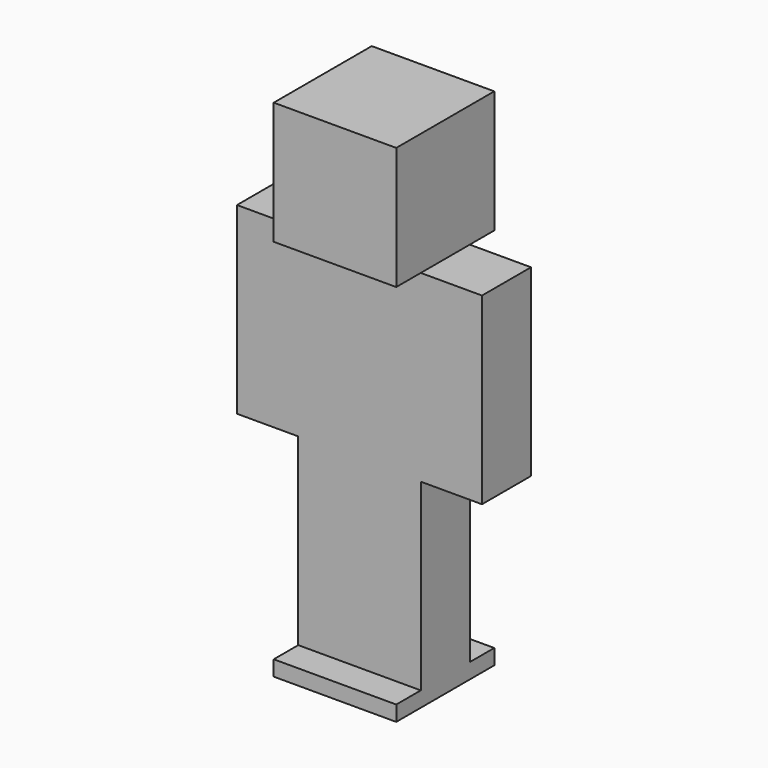
from build123d import *

# Parameters (mm, degrees)
F0_W     = 8
F0_H     = 24
F1_DEPTH = 4
F2_DEPTH = 8
F3_W     = 16
F3_H     = 16
F4_DEPTH = 2


with BuildPart() as f1:
    # F0 (on Front) → F1 (new body, symmetric)
    with BuildSketch(Plane.XZ):
        with Locations((-4, 7)):
            Rectangle(F0_W, F0_H)
        with Locations((-12, 7)):
            Rectangle(F0_W, F0_H)
        with Locations((4, 7)):
            Rectangle(F0_W, F0_H)
        with Locations((12, 7)):
            Rectangle(F0_W, F0_H)
        with Locations((4, -17)):
            Rectangle(F0_W, F0_H)
        with Locations((-4, -17)):
            Rectangle(F0_W, F0_H)
    extrude(amount=F1_DEPTH, both=True)

    # F0 (on Front) → F2 (join, symmetric)
    with BuildSketch(Plane.XZ):
        Polygon((-8, 19), (0, 19), (8, 19), (8, 35), (-8, 35), align=None)
    extrude(amount=F2_DEPTH, both=True)

    # F3 (on face) → F4 (join)
    with BuildSketch(Plane(origin=(0, 0, -29), x_dir=(1, 0, 0), z_dir=(0, 0, -1))):
        Rectangle(F3_W, F3_H)
    extrude(amount=F4_DEPTH)


solid = f1.part
